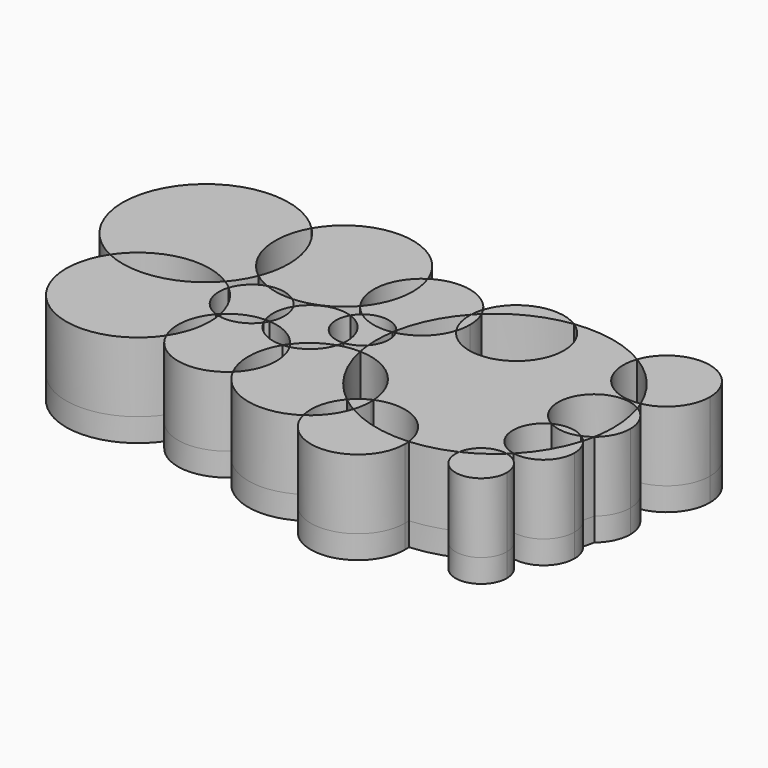
from build123d import *

# Parameters (mm, degrees)
F1_DEPTH = 15
F2_DEPTH = 5


with BuildPart() as f1:
    # F0 (on Top) → F1 (new body)
    with BuildSketch(Plane.XY):
        with BuildLine():
            ThreePointArc((-32.2254902645, 13.2245098171), (-37.7305843514, 22.0466509561), (-36.0782939342, 32.3134017351))
            ThreePointArc((-36.0782939342, 32.3134017351), (-63.373637172, 30.1933308866), (-56.538171332, 3.6828259947))
            ThreePointArc((-56.538171332, 3.6828259947), (-46.8354318647, 10.2532610517), (-35.3112346249, 8.1303743406))
            ThreePointArc((-35.3112346249, 8.1303743406), (-33.5546083045, 10.5479616919), (-32.2254902645, 13.2245098171))
        make_face()
    extrude(amount=F1_DEPTH)


with BuildPart() as f1b:
    # F0 (on Top) → F1, piece 2 (new body)
    with BuildSketch(Plane.XY):
        with BuildLine():
            ThreePointArc((-36.0782939342, 32.3134017351), (-32.2959619464, 26.5607498001), (-30.9695373069, 19.8050383478))
            ThreePointArc((-30.9695373069, 19.8050383478), (-31.2863340464, 16.4553826351), (-32.2254902645, 13.2245098171))
            ThreePointArc((-32.2254902645, 13.2245098171), (-30.5842192364, 12.1313862153), (-28.8122669355, 11.266010667))
            ThreePointArc((-28.8122669355, 11.266010667), (-25.5415165773, 11.474886789), (-22.5295555799, 10.1827845909))
            ThreePointArc((-22.5295555799, 10.1827845909), (-16.7448901594, 11.6544127118), (-12.0110207079, 15.2901414379))
            ThreePointArc((-12.0110207079, 15.2901414379), (-13.8808275785, 23.2900306621), (-9.3292227808, 30.1294238441))
            ThreePointArc((-9.3292227808, 30.1294238441), (-22.0084656353, 39.7372657082), (-36.0782939342, 32.3134017351))
        make_face()
    extrude(amount=F1_DEPTH)


with BuildPart() as f1c:
    # F0 (on Top) → F1, piece 3 (new body)
    with BuildSketch(Plane.XY):
        with BuildLine():
            ThreePointArc((4.9398122947, 27.1334498944), (-1.5770584962, 31.5731256967), (-9.3292227808, 30.1294238441))
            ThreePointArc((-9.3292227808, 30.1294238441), (-8.6370801517, 27.5942627275), (-8.4039187059, 24.9766800553))
            ThreePointArc((-8.4039187059, 24.9766800553), (-9.3349600899, 19.8085030256), (-12.0110207079, 15.2901414379))
            ThreePointArc((-12.0110207079, 15.2901414379), (-11.0246551136, 14.1451878178), (-9.8819778636, 13.1561860078))
            ThreePointArc((-9.8819778636, 13.1561860078), (-5.5773216343, 14.3927048766), (-1.71455073, 12.1259792414))
            ThreePointArc((-1.71455073, 12.1259792414), (0.5212629453, 18.7409769349), (4.4677112759, 24.5014111937))
            ThreePointArc((4.4677112759, 24.5014111937), (4.6169324215, 25.8330048709), (4.9398122947, 27.1334498944))
        make_face()
    extrude(amount=F1_DEPTH)


with BuildPart() as f1d:
    # F0 (on Top) → F1, piece 4 (new body)
    with BuildSketch(Plane.XY):
        with BuildLine():
            ThreePointArc((20.0756927522, 32.6351484916), (11.156970704, 33.6004737131), (4.9398122947, 27.1334498944))
            ThreePointArc((4.9398122947, 27.1334498944), (5.3450863537, 26.463148143), (5.6984728403, 25.7640991521))
            ThreePointArc((5.6984728403, 25.7640991521), (12.3365440109, 30.3515901076), (20.0756927522, 32.6351484916))
        make_face()
    extrude(amount=F1_DEPTH)


with BuildPart() as f1e:
    # F0 (on Top) → F1, piece 5 (new body)
    with BuildSketch(Plane.XY):
        with BuildLine():
            ThreePointArc((36.4044744584, 29.2372521428), (28.5257682279, 32.309073813), (20.0756927522, 32.6351484916))
            ThreePointArc((20.0756927522, 32.6351484916), (23.5479883323, 28.9442761635), (24.8097109907, 24.0363813937))
            ThreePointArc((24.8097109907, 24.0363813937), (17.5893774915, 14.2988475985), (6.1743676884, 18.3793293649))
            ThreePointArc((6.1743676884, 18.3793293649), (3.3771326049, 13.9097804947), (-1.2598399419, 11.3998249542))
            ThreePointArc((-1.2598399419, 11.3998249542), (-0.7729304118, 10.1178412097), (-0.6074121808, 8.7565304711))
            ThreePointArc((-0.6074121808, 8.7565304711), (-0.9817474949, 6.7284903619), (-2.055420214, 4.9677233402))
            ThreePointArc((-2.055420214, 4.9677233402), (-1.9018330364, 3.6812345796), (-1.6830945111, 2.404208421))
            ThreePointArc((-1.6830945111, 2.404208421), (7.0944451445, -1.2916588472), (11.0820796326, -9.9405552196))
            ThreePointArc((11.0820796326, -9.9405552196), (20.1699016902, -10.467312619), (25.1510636041, -18.0866307706))
            ThreePointArc((25.1510636041, -18.0866307706), (29.7383765532, -17.3335145213), (34.1127121842, -15.7600432109))
            ThreePointArc((34.1127121842, -15.7600432109), (36.4651361569, -12.0693654226), (40.7661391089, -11.259195878))
            ThreePointArc((40.7661391089, -11.259195878), (41.1883729661, -10.8543247189), (41.6012075804, -10.439873676))
            ThreePointArc((41.6012075804, -10.439873676), (36.2898310138, -4.87866024), (39.8212254433, 1.9526697401))
            ThreePointArc((39.8212254433, 1.9526697401), (36.8118206053, 12.6046203357), (47.5161609342, 15.4220069072))
            ThreePointArc((47.5161609342, 15.4220069072), (47.2362392647, 16.2163706009), (46.9302344817, 17.0010558191))
            ThreePointArc((46.9302344817, 17.0010558191), (38.1317957742, 20.077813241), (36.4044744584, 29.2372521428))
        make_face()
    extrude(amount=F1_DEPTH)


with BuildPart() as f1f:
    # F0 (on Top) → F1, piece 6 (new body)
    with BuildSketch(Plane.XY):
        with BuildLine():
            ThreePointArc((54.5075159284, 26.1520519853), (46.7579402289, 35.3340802263), (36.4044744584, 29.2372521428))
            ThreePointArc((36.4044744584, 29.2372521428), (42.6611146951, 23.9740014656), (46.9302344817, 17.0010558191))
            ThreePointArc((46.9302344817, 17.0010558191), (52.36731559, 20.2115990363), (54.5075159284, 26.1520519853))
        make_face()
    extrude(amount=F1_DEPTH)


with BuildPart() as f1g:
    # F0 (on Top) → F1, piece 7 (new body)
    with BuildSketch(Plane.XY):
        with BuildLine():
            ThreePointArc((51.3050407171, 8.7565304711), (50.2916258171, 12.5900727667), (47.5161609342, 15.4220069072))
            ThreePointArc((47.5161609342, 15.4220069072), (48.4985767554, 11.4370431163), (48.8289016152, 7.3460820131))
            ThreePointArc((48.8289016152, 7.3460820131), (48.7222721494, 5.0166503766), (48.4032755832, 2.7067017229))
            ThreePointArc((48.4032755832, 2.7067017229), (50.5420801535, 5.4016583135), (51.3050407171, 8.7565304711))
        make_face()
    extrude(amount=F1_DEPTH)


with BuildPart() as f1h:
    # F0 (on Top) → F1, piece 8 (new body)
    with BuildSketch(Plane.XY):
        with BuildLine():
            ThreePointArc((47.859241201, 0.3813089216), (45.4036417844, -5.4187286001), (41.6012075804, -10.439873676))
            ThreePointArc((41.6012075804, -10.439873676), (47.0616648983, -9.0383518279), (49.4621167071, -3.9375000633))
            ThreePointArc((49.4621167071, -3.9375000633), (49.0484744169, -1.6341698147), (47.859241201, 0.3813089216))
        make_face()
    extrude(amount=F1_DEPTH)


with BuildPart() as f1i:
    # F0 (on Top) → F1, piece 9 (new body)
    with BuildSketch(Plane.XY):
        with BuildLine():
            ThreePointArc((46.4973372871, 1.5817728825), (43.2095511717, 2.6720735462), (39.8212254433, 1.9526697401))
            ThreePointArc((39.8212254433, 1.9526697401), (43.1172695255, 1.0110117752), (46.4973372871, 1.5817728825))
        make_face()
    extrude(amount=F1_DEPTH)


with BuildPart() as f1j:
    # F0 (on Top) → F1, piece 10 (new body)
    with BuildSketch(Plane.XY):
        with BuildLine():
            ThreePointArc((40.7661391089, -11.259195878), (37.6177819055, -13.77327664), (34.1127121842, -15.7600432109))
            ThreePointArc((34.1127121842, -15.7600432109), (39.1141840879, -22.1221337116), (45.059282421, -16.6315305978))
            ThreePointArc((45.059282421, -16.6315305978), (43.8541583157, -13.193033112), (40.7661391089, -11.259195878))
        make_face()
    extrude(amount=F1_DEPTH)


with BuildPart() as f1k:
    # F0 (on Top) → F1, piece 11 (new body)
    with BuildSketch(Plane.XY):
        with BuildLine():
            ThreePointArc((10.5050333457, -14.6908294381), (8.4947966558, -18.6259590286), (5.2956344741, -21.6741810971))
            ThreePointArc((5.2956344741, -21.6741810971), (16.341269602, -29.2522495604), (25.2144875615, -19.2173514515))
            ThreePointArc((25.2144875615, -19.2173514515), (25.1986191199, -18.6511024214), (25.1510636041, -18.0866307706))
            ThreePointArc((25.1510636041, -18.0866307706), (17.5720711637, -17.4927556576), (10.5050333457, -14.6908294381))
        make_face()
    extrude(amount=F1_DEPTH)


with BuildPart() as f1l:
    # F0 (on Top) → F1, piece 12 (new body)
    with BuildSketch(Plane.XY):
        with BuildLine():
            ThreePointArc((7.4542287986, -12.6053104176), (8.9417983003, -13.7034136534), (10.5050333457, -14.6908294381))
            ThreePointArc((10.5050333457, -14.6908294381), (10.9558451945, -12.7456498976), (11.1072771251, -10.7546644285))
            ThreePointArc((11.1072771251, -10.7546644285), (11.1009762441, -10.3474148988), (11.0820796326, -9.9405552196))
            ThreePointArc((11.0820796326, -9.9405552196), (9.1179777436, -11.0684795766), (7.4542287986, -12.6053104176))
        make_face()
    extrude(amount=F1_DEPTH)


with BuildPart() as f1m:
    # F0 (on Top) → F1, piece 13 (new body)
    with BuildSketch(Plane.XY):
        with BuildLine():
            ThreePointArc((-10.5169785998, -9.1091422364), (-11.3661154493, -13.2622555227), (-13.7772372875, -16.7487831419))
            ThreePointArc((-13.7772372875, -16.7487831419), (-5.3484529425, -23.5006981162), (5.2956344741, -21.6741810971))
            ThreePointArc((5.2956344741, -21.6741810971), (5.2673977384, -16.8761278858), (7.4542287986, -12.6053104176))
            ThreePointArc((7.4542287986, -12.6053104176), (1.5517273424, -5.9125507459), (-1.6830945111, 2.404208421))
            ThreePointArc((-1.6830945111, 2.404208421), (-3.9477170563, 2.2730174378), (-6.1561950599, 1.7549911317))
            ThreePointArc((-6.1561950599, 1.7549911317), (-8.3365133633, -1.7685914205), (-11.9881298518, -3.7269373876))
            ThreePointArc((-11.9881298518, -3.7269373876), (-10.8913907808, -6.3193207797), (-10.5169785998, -9.1091422364))
        make_face()
    extrude(amount=F1_DEPTH)


with BuildPart() as f1n:
    # F0 (on Top) → F1, piece 14 (new body)
    with BuildSketch(Plane.XY):
        with BuildLine():
            ThreePointArc((-28.2054938273, -4.8777987249), (-28.8601133132, -9.3288448474), (-30.7685335851, -13.4029423329))
            ThreePointArc((-30.7685335851, -13.4029423329), (-23.1422429899, -19.4907505417), (-13.7772372875, -16.7487831419))
            ThreePointArc((-13.7772372875, -16.7487831419), (-15.2123184287, -10.2743071417), (-13.3088699503, -3.9217343363))
            ThreePointArc((-13.3088699503, -3.9217343363), (-17.7982504462, -2.8716916663), (-20.9606994855, 0.4833110043))
            ThreePointArc((-20.9606994855, 0.4833110043), (-24.2546940193, -2.0747088173), (-28.4178022933, -2.3244985194))
            ThreePointArc((-28.4178022933, -2.3244985194), (-28.2586623721, -3.5967428299), (-28.2054938273, -4.8777987249))
        make_face()
    extrude(amount=F1_DEPTH)


with BuildPart() as f1o:
    # F0 (on Top) → F1, piece 15 (new body)
    with BuildSketch(Plane.XY):
        with BuildLine():
            ThreePointArc((-22.5295555799, 10.1827845909), (-25.7298920745, 10.3823088851), (-28.8122669355, 11.266010667))
            ThreePointArc((-28.8122669355, 11.266010667), (-31.6811899526, 9.5567026736), (-33.4420340494, 6.7191189899))
            ThreePointArc((-33.4420340494, 6.7191189899), (-30.3330062232, 2.9487433898), (-28.5561739019, -1.603690365))
            ThreePointArc((-28.5561739019, -1.603690365), (-25.258484357, 0.6195202365), (-21.3729888947, 1.4682526591))
            ThreePointArc((-21.3729888947, 1.4682526591), (-21.7606536881, 4.8783574129), (-20.6823965739, 8.1366483789))
            ThreePointArc((-20.6823965739, 8.1366483789), (-21.5050289079, 9.2508470124), (-22.5295555799, 10.1827845909))
        make_face()
    extrude(amount=F1_DEPTH)


with BuildPart() as f1p:
    # F0 (on Top) → F1, piece 16 (new body)
    with BuildSketch(Plane.XY):
        with BuildLine():
            ThreePointArc((-35.3112346249, 8.1303743406), (-45.1727112917, 2.3175486955), (-56.538171332, 3.6828259947))
            ThreePointArc((-56.538171332, 3.6828259947), (-52.2080070515, -17.7626298115), (-30.7685335851, -13.4029423329))
            ThreePointArc((-30.7685335851, -13.4029423329), (-31.5587691156, -7.5191209668), (-29.055958534, -2.1358352366))
            ThreePointArc((-29.055958534, -2.1358352366), (-33.0592295828, 1.3949890299), (-33.4420340494, 6.7191189899))
            ThreePointArc((-33.4420340494, 6.7191189899), (-34.3498703198, 7.4601954708), (-35.3112346249, 8.1303743406))
        make_face()
    extrude(amount=F1_DEPTH)


with BuildPart() as f1q:
    # F0 (on Top) → F1, piece 17 (new body)
    with BuildSketch(Plane.XY):
        with BuildLine():
            ThreePointArc((-28.5561739019, -1.603690365), (-28.8106570578, -1.8654511343), (-29.055958534, -2.1358352366))
            ThreePointArc((-29.055958534, -2.1358352366), (-28.7391069732, -2.2376982475), (-28.4178022933, -2.3244985194))
            ThreePointArc((-28.4178022933, -2.3244985194), (-28.4827098096, -1.9632731507), (-28.5561739019, -1.603690365))
        make_face()
    extrude(amount=F1_DEPTH)


with BuildPart() as f1r:
    # F0 (on Top) → F1, piece 18 (new body)
    with BuildSketch(Plane.XY):
        with BuildLine():
            ThreePointArc((-20.394080626, 1.4483905943), (-20.8833048953, 1.4696505987), (-21.3729888947, 1.4682526591))
            ThreePointArc((-21.3729888947, 1.4682526591), (-21.1833103049, 0.9688892358), (-20.9606994855, 0.4833110043))
            ThreePointArc((-20.9606994855, 0.4833110043), (-20.6582162212, 0.9545934311), (-20.394080626, 1.4483905943))
        make_face()
    extrude(amount=F1_DEPTH)


with BuildPart() as f1s:
    # F0 (on Top) → F1, piece 19 (new body)
    with BuildSketch(Plane.XY):
        with BuildLine():
            ThreePointArc((-12.5751310445, -2.8386950609), (-12.9554621285, -3.3710946947), (-13.3088699503, -3.9217343363))
            ThreePointArc((-13.3088699503, -3.9217343363), (-12.6444255616, -3.8519602344), (-11.9881298518, -3.7269373876))
            ThreePointArc((-11.9881298518, -3.7269373876), (-12.270451256, -3.2754283764), (-12.5751310445, -2.8386950609))
        make_face()
    extrude(amount=F1_DEPTH)


with BuildPart() as f1t:
    # F0 (on Top) → F1, piece 20 (new body)
    with BuildSketch(Plane.XY):
        with BuildLine():
            ThreePointArc((-11.200752309, 11.6094517769), (-16.5594517063, 11.5600135348), (-20.6823965739, 8.1366483789))
            ThreePointArc((-20.6823965739, 8.1366483789), (-19.9407733842, 6.3981836062), (-19.6875017136, 4.525186494))
            ThreePointArc((-19.6875017136, 4.525186494), (-19.8664159554, 2.946743688), (-20.394080626, 1.4483905943))
            ThreePointArc((-20.394080626, 1.4483905943), (-16.010935021, 0.1687465812), (-12.5751310445, -2.8386950609))
            ThreePointArc((-12.5751310445, -2.8386950609), (-9.7180688716, -0.0494216374), (-6.1561950599, 1.7549911317))
            ThreePointArc((-6.1561950599, 1.7549911317), (-5.9877867495, 2.4168343251), (-5.8764936736, 3.0906381712))
            ThreePointArc((-5.8764936736, 3.0906381712), (-11.1055838755, 5.7456943817), (-11.200752309, 11.6094517769))
        make_face()
    extrude(amount=F1_DEPTH)


with BuildPart() as f1u:
    # F0 (on Top) → F1, piece 21 (new body)
    with BuildSketch(Plane.XY):
        with BuildLine():
            ThreePointArc((-1.862496201, 11.2722418853), (-6.0678839317, 11.3813937458), (-9.8819778636, 13.1561860078))
            ThreePointArc((-9.8819778636, 13.1561860078), (-10.611106013, 12.4422813069), (-11.200752309, 11.6094517769))
            ThreePointArc((-11.200752309, 11.6094517769), (-7.3014011156, 8.6929830831), (-5.8180969208, 4.0550376289))
            ThreePointArc((-5.8180969208, 4.0550376289), (-5.8327094669, 3.5719546922), (-5.8764936736, 3.0906381712))
            ThreePointArc((-5.8764936736, 3.0906381712), (-3.7834728463, 3.6577084574), (-2.055420214, 4.9677233402))
            ThreePointArc((-2.055420214, 4.9677233402), (-2.154656022, 8.1259711442), (-1.862496201, 11.2722418853))
        make_face()
    extrude(amount=F1_DEPTH)


with BuildPart() as f1v:
    # F0 (on Top) → F1, piece 22 (new body)
    with BuildSketch(Plane.XY):
        with BuildLine():
            ThreePointArc((-1.2598399419, 11.3998249542), (-1.4734861426, 11.771486662), (-1.71455073, 12.1259792414))
            ThreePointArc((-1.71455073, 12.1259792414), (-1.7921501778, 11.6997390419), (-1.862496201, 11.2722418853))
            ThreePointArc((-1.862496201, 11.2722418853), (-1.5602180557, 11.3315458889), (-1.2598399419, 11.3998249542))
        make_face()
    extrude(amount=F1_DEPTH)


with BuildPart() as f1w:
    # F0 (on Top) → F1, piece 23 (new body)
    with BuildSketch(Plane.XY):
        with BuildLine():
            ThreePointArc((6.6408575512, 21.45056054), (6.4025152903, 23.6582009263), (5.6984728403, 25.7640991521))
            ThreePointArc((5.6984728403, 25.7640991521), (5.07217375, 25.1433974174), (4.4677112759, 24.5014111937))
            ThreePointArc((4.4677112759, 24.5014111937), (4.8308475722, 21.3037191874), (6.1743676884, 18.3793293649))
            ThreePointArc((6.1743676884, 18.3793293649), (6.5235700962, 19.8973321502), (6.6408575512, 21.45056054))
        make_face()
    extrude(amount=F1_DEPTH)


with BuildPart() as f1x:
    # F0 (on Top) → F1, piece 24 (new body)
    with BuildSketch(Plane.XY):
        with BuildLine():
            ThreePointArc((47.859241201, 0.3813089216), (48.1584986222, 1.5376323681), (48.4032755832, 2.7067017229))
            ThreePointArc((48.4032755832, 2.7067017229), (47.4906295435, 2.0759188867), (46.4973372871, 1.5817728825))
            ThreePointArc((46.4973372871, 1.5817728825), (47.2196377028, 1.0284499552), (47.859241201, 0.3813089216))
        make_face()
    extrude(amount=F1_DEPTH)


with BuildPart() as f2:
    # F0 (on Top) → F2 (new body)
    with BuildSketch(Plane.XY):
        with BuildLine():
            ThreePointArc((-35.3112346249, 8.1303743406), (-45.1727112917, 2.3175486955), (-56.538171332, 3.6828259947))
            ThreePointArc((-56.538171332, 3.6828259947), (-52.2080070515, -17.7626298115), (-30.7685335851, -13.4029423329))
            ThreePointArc((-30.7685335851, -13.4029423329), (-31.5587691156, -7.5191209668), (-29.055958534, -2.1358352366))
            ThreePointArc((-29.055958534, -2.1358352366), (-33.0592295828, 1.3949890299), (-33.4420340494, 6.7191189899))
            ThreePointArc((-33.4420340494, 6.7191189899), (-34.3498703198, 7.4601954708), (-35.3112346249, 8.1303743406))
        make_face()
        with BuildLine():
            ThreePointArc((-28.5561739019, -1.603690365), (-30.3330062232, 2.9487433898), (-33.4420340494, 6.7191189899))
            ThreePointArc((-33.4420340494, 6.7191189899), (-33.0592295828, 1.3949890299), (-29.055958534, -2.1358352366))
            ThreePointArc((-29.055958534, -2.1358352366), (-28.8106570578, -1.8654511343), (-28.5561739019, -1.603690365))
        make_face()
        with BuildLine():
            ThreePointArc((-29.055958534, -2.1358352366), (-31.5587691156, -7.5191209668), (-30.7685335851, -13.4029423329))
            ThreePointArc((-30.7685335851, -13.4029423329), (-28.8601133132, -9.3288448474), (-28.2054938273, -4.8777987249))
            ThreePointArc((-28.2054938273, -4.8777987249), (-28.2586623721, -3.5967428299), (-28.4178022933, -2.3244985194))
            ThreePointArc((-28.4178022933, -2.3244985194), (-28.7391069732, -2.2376982475), (-29.055958534, -2.1358352366))
        make_face()
        with BuildLine():
            ThreePointArc((-35.3112346249, 8.1303743406), (-46.8354318647, 10.2532610517), (-56.538171332, 3.6828259947))
            ThreePointArc((-56.538171332, 3.6828259947), (-45.1727112917, 2.3175486955), (-35.3112346249, 8.1303743406))
        make_face()
        with BuildLine():
            ThreePointArc((-32.2254902645, 13.2245098171), (-37.7305843514, 22.0466509561), (-36.0782939342, 32.3134017351))
            ThreePointArc((-36.0782939342, 32.3134017351), (-63.373637172, 30.1933308866), (-56.538171332, 3.6828259947))
            ThreePointArc((-56.538171332, 3.6828259947), (-46.8354318647, 10.2532610517), (-35.3112346249, 8.1303743406))
            ThreePointArc((-35.3112346249, 8.1303743406), (-33.5546083045, 10.5479616919), (-32.2254902645, 13.2245098171))
        make_face()
        with BuildLine():
            ThreePointArc((-28.8122669355, 11.266010667), (-30.5842192364, 12.1313862153), (-32.2254902645, 13.2245098171))
            ThreePointArc((-32.2254902645, 13.2245098171), (-33.5546083045, 10.5479616919), (-35.3112346249, 8.1303743406))
            ThreePointArc((-35.3112346249, 8.1303743406), (-34.3498703198, 7.4601954708), (-33.4420340494, 6.7191189899))
            ThreePointArc((-33.4420340494, 6.7191189899), (-31.6811899526, 9.5567026736), (-28.8122669355, 11.266010667))
        make_face()
        with BuildLine():
            ThreePointArc((-32.2254902645, 13.2245098171), (-31.2863340464, 16.4553826351), (-30.9695373069, 19.8050383478))
            ThreePointArc((-30.9695373069, 19.8050383478), (-32.2959619464, 26.5607498001), (-36.0782939342, 32.3134017351))
            ThreePointArc((-36.0782939342, 32.3134017351), (-37.7305843514, 22.0466509561), (-32.2254902645, 13.2245098171))
        make_face()
        with BuildLine():
            ThreePointArc((-36.0782939342, 32.3134017351), (-32.2959619464, 26.5607498001), (-30.9695373069, 19.8050383478))
            ThreePointArc((-30.9695373069, 19.8050383478), (-31.2863340464, 16.4553826351), (-32.2254902645, 13.2245098171))
            ThreePointArc((-32.2254902645, 13.2245098171), (-30.5842192364, 12.1313862153), (-28.8122669355, 11.266010667))
            ThreePointArc((-28.8122669355, 11.266010667), (-25.5415165773, 11.474886789), (-22.5295555799, 10.1827845909))
            ThreePointArc((-22.5295555799, 10.1827845909), (-16.7448901594, 11.6544127118), (-12.0110207079, 15.2901414379))
            ThreePointArc((-12.0110207079, 15.2901414379), (-13.8808275785, 23.2900306621), (-9.3292227808, 30.1294238441))
            ThreePointArc((-9.3292227808, 30.1294238441), (-22.0084656353, 39.7372657082), (-36.0782939342, 32.3134017351))
        make_face()
        with BuildLine():
            ThreePointArc((-22.5295555799, 10.1827845909), (-25.5415165773, 11.474886789), (-28.8122669355, 11.266010667))
            ThreePointArc((-28.8122669355, 11.266010667), (-25.7298920745, 10.3823088851), (-22.5295555799, 10.1827845909))
        make_face()
        with BuildLine():
            ThreePointArc((-19.6875017136, 4.525186494), (-19.9407733842, 6.3981836062), (-20.6823965739, 8.1366483789))
            ThreePointArc((-20.6823965739, 8.1366483789), (-21.7606536881, 4.8783574129), (-21.3729888947, 1.4682526591))
            ThreePointArc((-21.3729888947, 1.4682526591), (-20.8833048953, 1.4696505987), (-20.394080626, 1.4483905943))
            ThreePointArc((-20.394080626, 1.4483905943), (-19.8664159554, 2.946743688), (-19.6875017136, 4.525186494))
        make_face()
        with BuildLine():
            ThreePointArc((-21.3729888947, 1.4682526591), (-25.258484357, 0.6195202365), (-28.5561739019, -1.603690365))
            ThreePointArc((-28.5561739019, -1.603690365), (-28.4827098096, -1.9632731507), (-28.4178022933, -2.3244985194))
            ThreePointArc((-28.4178022933, -2.3244985194), (-24.2546940193, -2.0747088173), (-20.9606994855, 0.4833110043))
            ThreePointArc((-20.9606994855, 0.4833110043), (-21.1833103049, 0.9688892358), (-21.3729888947, 1.4682526591))
        make_face()
        with BuildLine():
            ThreePointArc((-28.5561739019, -1.603690365), (-28.8106570578, -1.8654511343), (-29.055958534, -2.1358352366))
            ThreePointArc((-29.055958534, -2.1358352366), (-28.7391069732, -2.2376982475), (-28.4178022933, -2.3244985194))
            ThreePointArc((-28.4178022933, -2.3244985194), (-28.4827098096, -1.9632731507), (-28.5561739019, -1.603690365))
        make_face()
        with BuildLine():
            ThreePointArc((-20.394080626, 1.4483905943), (-20.8833048953, 1.4696505987), (-21.3729888947, 1.4682526591))
            ThreePointArc((-21.3729888947, 1.4682526591), (-21.1833103049, 0.9688892358), (-20.9606994855, 0.4833110043))
            ThreePointArc((-20.9606994855, 0.4833110043), (-20.6582162212, 0.9545934311), (-20.394080626, 1.4483905943))
        make_face()
        with BuildLine():
            ThreePointArc((-28.2054938273, -4.8777987249), (-28.8601133132, -9.3288448474), (-30.7685335851, -13.4029423329))
            ThreePointArc((-30.7685335851, -13.4029423329), (-23.1422429899, -19.4907505417), (-13.7772372875, -16.7487831419))
            ThreePointArc((-13.7772372875, -16.7487831419), (-15.2123184287, -10.2743071417), (-13.3088699503, -3.9217343363))
            ThreePointArc((-13.3088699503, -3.9217343363), (-17.7982504462, -2.8716916663), (-20.9606994855, 0.4833110043))
            ThreePointArc((-20.9606994855, 0.4833110043), (-24.2546940193, -2.0747088173), (-28.4178022933, -2.3244985194))
            ThreePointArc((-28.4178022933, -2.3244985194), (-28.2586623721, -3.5967428299), (-28.2054938273, -4.8777987249))
        make_face()
        with BuildLine():
            ThreePointArc((-20.9606994855, 0.4833110043), (-17.7982504462, -2.8716916663), (-13.3088699503, -3.9217343363))
            ThreePointArc((-13.3088699503, -3.9217343363), (-12.9554621285, -3.3710946947), (-12.5751310445, -2.8386950609))
            ThreePointArc((-12.5751310445, -2.8386950609), (-16.010935021, 0.1687465812), (-20.394080626, 1.4483905943))
            ThreePointArc((-20.394080626, 1.4483905943), (-20.6582162212, 0.9545934311), (-20.9606994855, 0.4833110043))
        make_face()
        with BuildLine():
            ThreePointArc((-11.200752309, 11.6094517769), (-16.5594517063, 11.5600135348), (-20.6823965739, 8.1366483789))
            ThreePointArc((-20.6823965739, 8.1366483789), (-19.9407733842, 6.3981836062), (-19.6875017136, 4.525186494))
            ThreePointArc((-19.6875017136, 4.525186494), (-19.8664159554, 2.946743688), (-20.394080626, 1.4483905943))
            ThreePointArc((-20.394080626, 1.4483905943), (-16.010935021, 0.1687465812), (-12.5751310445, -2.8386950609))
            ThreePointArc((-12.5751310445, -2.8386950609), (-9.7180688716, -0.0494216374), (-6.1561950599, 1.7549911317))
            ThreePointArc((-6.1561950599, 1.7549911317), (-5.9877867495, 2.4168343251), (-5.8764936736, 3.0906381712))
            ThreePointArc((-5.8764936736, 3.0906381712), (-11.1055838755, 5.7456943817), (-11.200752309, 11.6094517769))
        make_face()
        with BuildLine():
            ThreePointArc((-9.8819778636, 13.1561860078), (-11.0246551136, 14.1451878178), (-12.0110207079, 15.2901414379))
            ThreePointArc((-12.0110207079, 15.2901414379), (-16.7448901594, 11.6544127118), (-22.5295555799, 10.1827845909))
            ThreePointArc((-22.5295555799, 10.1827845909), (-21.5050289079, 9.2508470124), (-20.6823965739, 8.1366483789))
            ThreePointArc((-20.6823965739, 8.1366483789), (-16.5594517063, 11.5600135348), (-11.200752309, 11.6094517769))
            ThreePointArc((-11.200752309, 11.6094517769), (-10.611106013, 12.4422813069), (-9.8819778636, 13.1561860078))
        make_face()
        with BuildLine():
            ThreePointArc((-8.4039187059, 24.9766800553), (-8.6370801517, 27.5942627275), (-9.3292227808, 30.1294238441))
            ThreePointArc((-9.3292227808, 30.1294238441), (-13.8808275785, 23.2900306621), (-12.0110207079, 15.2901414379))
            ThreePointArc((-12.0110207079, 15.2901414379), (-9.3349600899, 19.8085030256), (-8.4039187059, 24.9766800553))
        make_face()
        with BuildLine():
            ThreePointArc((4.9398122947, 27.1334498944), (-1.5770584962, 31.5731256967), (-9.3292227808, 30.1294238441))
            ThreePointArc((-9.3292227808, 30.1294238441), (-8.6370801517, 27.5942627275), (-8.4039187059, 24.9766800553))
            ThreePointArc((-8.4039187059, 24.9766800553), (-9.3349600899, 19.8085030256), (-12.0110207079, 15.2901414379))
            ThreePointArc((-12.0110207079, 15.2901414379), (-11.0246551136, 14.1451878178), (-9.8819778636, 13.1561860078))
            ThreePointArc((-9.8819778636, 13.1561860078), (-5.5773216343, 14.3927048766), (-1.71455073, 12.1259792414))
            ThreePointArc((-1.71455073, 12.1259792414), (0.5212629453, 18.7409769349), (4.4677112759, 24.5014111937))
            ThreePointArc((4.4677112759, 24.5014111937), (4.6169324215, 25.8330048709), (4.9398122947, 27.1334498944))
        make_face()
        with BuildLine():
            ThreePointArc((-1.71455073, 12.1259792414), (-5.5773216343, 14.3927048766), (-9.8819778636, 13.1561860078))
            ThreePointArc((-9.8819778636, 13.1561860078), (-6.0678839317, 11.3813937458), (-1.862496201, 11.2722418853))
            ThreePointArc((-1.862496201, 11.2722418853), (-1.7921501778, 11.6997390419), (-1.71455073, 12.1259792414))
        make_face()
        with BuildLine():
            ThreePointArc((-5.8180969208, 4.0550376289), (-7.3014011156, 8.6929830831), (-11.200752309, 11.6094517769))
            ThreePointArc((-11.200752309, 11.6094517769), (-11.1055838755, 5.7456943817), (-5.8764936736, 3.0906381712))
            ThreePointArc((-5.8764936736, 3.0906381712), (-5.8327094669, 3.5719546922), (-5.8180969208, 4.0550376289))
        make_face()
        with BuildLine():
            ThreePointArc((-1.862496201, 11.2722418853), (-6.0678839317, 11.3813937458), (-9.8819778636, 13.1561860078))
            ThreePointArc((-9.8819778636, 13.1561860078), (-10.611106013, 12.4422813069), (-11.200752309, 11.6094517769))
            ThreePointArc((-11.200752309, 11.6094517769), (-7.3014011156, 8.6929830831), (-5.8180969208, 4.0550376289))
            ThreePointArc((-5.8180969208, 4.0550376289), (-5.8327094669, 3.5719546922), (-5.8764936736, 3.0906381712))
            ThreePointArc((-5.8764936736, 3.0906381712), (-3.7834728463, 3.6577084574), (-2.055420214, 4.9677233402))
            ThreePointArc((-2.055420214, 4.9677233402), (-2.154656022, 8.1259711442), (-1.862496201, 11.2722418853))
        make_face()
        with BuildLine():
            ThreePointArc((-12.5751310445, -2.8386950609), (-12.270451256, -3.2754283764), (-11.9881298518, -3.7269373876))
            ThreePointArc((-11.9881298518, -3.7269373876), (-8.3365133633, -1.7685914205), (-6.1561950599, 1.7549911317))
            ThreePointArc((-6.1561950599, 1.7549911317), (-9.7180688716, -0.0494216374), (-12.5751310445, -2.8386950609))
        make_face()
        with BuildLine():
            ThreePointArc((-13.3088699503, -3.9217343363), (-15.2123184287, -10.2743071417), (-13.7772372875, -16.7487831419))
            ThreePointArc((-13.7772372875, -16.7487831419), (-11.3661154493, -13.2622555227), (-10.5169785998, -9.1091422364))
            ThreePointArc((-10.5169785998, -9.1091422364), (-10.8913907808, -6.3193207797), (-11.9881298518, -3.7269373876))
            ThreePointArc((-11.9881298518, -3.7269373876), (-12.6444255616, -3.8519602344), (-13.3088699503, -3.9217343363))
        make_face()
        with BuildLine():
            ThreePointArc((-10.5169785998, -9.1091422364), (-11.3661154493, -13.2622555227), (-13.7772372875, -16.7487831419))
            ThreePointArc((-13.7772372875, -16.7487831419), (-5.3484529425, -23.5006981162), (5.2956344741, -21.6741810971))
            ThreePointArc((5.2956344741, -21.6741810971), (5.2673977384, -16.8761278858), (7.4542287986, -12.6053104176))
            ThreePointArc((7.4542287986, -12.6053104176), (1.5517273424, -5.9125507459), (-1.6830945111, 2.404208421))
            ThreePointArc((-1.6830945111, 2.404208421), (-3.9477170563, 2.2730174378), (-6.1561950599, 1.7549911317))
            ThreePointArc((-6.1561950599, 1.7549911317), (-8.3365133633, -1.7685914205), (-11.9881298518, -3.7269373876))
            ThreePointArc((-11.9881298518, -3.7269373876), (-10.8913907808, -6.3193207797), (-10.5169785998, -9.1091422364))
        make_face()
        with BuildLine():
            ThreePointArc((-22.5295555799, 10.1827845909), (-25.7298920745, 10.3823088851), (-28.8122669355, 11.266010667))
            ThreePointArc((-28.8122669355, 11.266010667), (-31.6811899526, 9.5567026736), (-33.4420340494, 6.7191189899))
            ThreePointArc((-33.4420340494, 6.7191189899), (-30.3330062232, 2.9487433898), (-28.5561739019, -1.603690365))
            ThreePointArc((-28.5561739019, -1.603690365), (-25.258484357, 0.6195202365), (-21.3729888947, 1.4682526591))
            ThreePointArc((-21.3729888947, 1.4682526591), (-21.7606536881, 4.8783574129), (-20.6823965739, 8.1366483789))
            ThreePointArc((-20.6823965739, 8.1366483789), (-21.5050289079, 9.2508470124), (-22.5295555799, 10.1827845909))
        make_face()
        with BuildLine():
            ThreePointArc((-12.5751310445, -2.8386950609), (-12.9554621285, -3.3710946947), (-13.3088699503, -3.9217343363))
            ThreePointArc((-13.3088699503, -3.9217343363), (-12.6444255616, -3.8519602344), (-11.9881298518, -3.7269373876))
            ThreePointArc((-11.9881298518, -3.7269373876), (-12.270451256, -3.2754283764), (-12.5751310445, -2.8386950609))
        make_face()
        with BuildLine():
            ThreePointArc((-1.6830945111, 2.404208421), (1.5517273424, -5.9125507459), (7.4542287986, -12.6053104176))
            ThreePointArc((7.4542287986, -12.6053104176), (9.1179777436, -11.0684795766), (11.0820796326, -9.9405552196))
            ThreePointArc((11.0820796326, -9.9405552196), (7.0944451445, -1.2916588472), (-1.6830945111, 2.404208421))
        make_face()
        with BuildLine():
            ThreePointArc((-2.055420214, 4.9677233402), (-3.7834728463, 3.6577084574), (-5.8764936736, 3.0906381712))
            ThreePointArc((-5.8764936736, 3.0906381712), (-5.9877867495, 2.4168343251), (-6.1561950599, 1.7549911317))
            ThreePointArc((-6.1561950599, 1.7549911317), (-3.9477170563, 2.2730174378), (-1.6830945111, 2.404208421))
            ThreePointArc((-1.6830945111, 2.404208421), (-1.9018330364, 3.6812345796), (-2.055420214, 4.9677233402))
        make_face()
        with BuildLine():
            ThreePointArc((-1.2598399419, 11.3998249542), (-1.5602180557, 11.3315458889), (-1.862496201, 11.2722418853))
            ThreePointArc((-1.862496201, 11.2722418853), (-2.154656022, 8.1259711442), (-2.055420214, 4.9677233402))
            ThreePointArc((-2.055420214, 4.9677233402), (-0.9817474949, 6.7284903619), (-0.6074121808, 8.7565304711))
            ThreePointArc((-0.6074121808, 8.7565304711), (-0.7729304118, 10.1178412097), (-1.2598399419, 11.3998249542))
        make_face()
        with BuildLine():
            ThreePointArc((36.4044744584, 29.2372521428), (28.5257682279, 32.309073813), (20.0756927522, 32.6351484916))
            ThreePointArc((20.0756927522, 32.6351484916), (23.5479883323, 28.9442761635), (24.8097109907, 24.0363813937))
            ThreePointArc((24.8097109907, 24.0363813937), (17.5893774915, 14.2988475985), (6.1743676884, 18.3793293649))
            ThreePointArc((6.1743676884, 18.3793293649), (3.3771326049, 13.9097804947), (-1.2598399419, 11.3998249542))
            ThreePointArc((-1.2598399419, 11.3998249542), (-0.7729304118, 10.1178412097), (-0.6074121808, 8.7565304711))
            ThreePointArc((-0.6074121808, 8.7565304711), (-0.9817474949, 6.7284903619), (-2.055420214, 4.9677233402))
            ThreePointArc((-2.055420214, 4.9677233402), (-1.9018330364, 3.6812345796), (-1.6830945111, 2.404208421))
            ThreePointArc((-1.6830945111, 2.404208421), (7.0944451445, -1.2916588472), (11.0820796326, -9.9405552196))
            ThreePointArc((11.0820796326, -9.9405552196), (20.1699016902, -10.467312619), (25.1510636041, -18.0866307706))
            ThreePointArc((25.1510636041, -18.0866307706), (29.7383765532, -17.3335145213), (34.1127121842, -15.7600432109))
            ThreePointArc((34.1127121842, -15.7600432109), (36.4651361569, -12.0693654226), (40.7661391089, -11.259195878))
            ThreePointArc((40.7661391089, -11.259195878), (41.1883729661, -10.8543247189), (41.6012075804, -10.439873676))
            ThreePointArc((41.6012075804, -10.439873676), (36.2898310138, -4.87866024), (39.8212254433, 1.9526697401))
            ThreePointArc((39.8212254433, 1.9526697401), (36.8118206053, 12.6046203357), (47.5161609342, 15.4220069072))
            ThreePointArc((47.5161609342, 15.4220069072), (47.2362392647, 16.2163706009), (46.9302344817, 17.0010558191))
            ThreePointArc((46.9302344817, 17.0010558191), (38.1317957742, 20.077813241), (36.4044744584, 29.2372521428))
        make_face()
        with BuildLine():
            ThreePointArc((20.0756927522, 32.6351484916), (12.3365440109, 30.3515901076), (5.6984728403, 25.7640991521))
            ThreePointArc((5.6984728403, 25.7640991521), (6.4025152903, 23.6582009263), (6.6408575512, 21.45056054))
            ThreePointArc((6.6408575512, 21.45056054), (6.5235700962, 19.8973321502), (6.1743676884, 18.3793293649))
            ThreePointArc((6.1743676884, 18.3793293649), (17.5893774915, 14.2988475985), (24.8097109907, 24.0363813937))
            ThreePointArc((24.8097109907, 24.0363813937), (23.5479883323, 28.9442761635), (20.0756927522, 32.6351484916))
        make_face()
        with BuildLine():
            ThreePointArc((5.6984728403, 25.7640991521), (5.3450863537, 26.463148143), (4.9398122947, 27.1334498944))
            ThreePointArc((4.9398122947, 27.1334498944), (4.6169324215, 25.8330048709), (4.4677112759, 24.5014111937))
            ThreePointArc((4.4677112759, 24.5014111937), (5.07217375, 25.1433974174), (5.6984728403, 25.7640991521))
        make_face()
        with BuildLine():
            ThreePointArc((6.6408575512, 21.45056054), (6.4025152903, 23.6582009263), (5.6984728403, 25.7640991521))
            ThreePointArc((5.6984728403, 25.7640991521), (5.07217375, 25.1433974174), (4.4677112759, 24.5014111937))
            ThreePointArc((4.4677112759, 24.5014111937), (4.8308475722, 21.3037191874), (6.1743676884, 18.3793293649))
            ThreePointArc((6.1743676884, 18.3793293649), (6.5235700962, 19.8973321502), (6.6408575512, 21.45056054))
        make_face()
        with BuildLine():
            ThreePointArc((6.1743676884, 18.3793293649), (4.8308475722, 21.3037191874), (4.4677112759, 24.5014111937))
            ThreePointArc((4.4677112759, 24.5014111937), (0.5212629453, 18.7409769349), (-1.71455073, 12.1259792414))
            ThreePointArc((-1.71455073, 12.1259792414), (-1.4734861426, 11.771486662), (-1.2598399419, 11.3998249542))
            ThreePointArc((-1.2598399419, 11.3998249542), (3.3771326049, 13.9097804947), (6.1743676884, 18.3793293649))
        make_face()
        with BuildLine():
            ThreePointArc((-1.2598399419, 11.3998249542), (-1.4734861426, 11.771486662), (-1.71455073, 12.1259792414))
            ThreePointArc((-1.71455073, 12.1259792414), (-1.7921501778, 11.6997390419), (-1.862496201, 11.2722418853))
            ThreePointArc((-1.862496201, 11.2722418853), (-1.5602180557, 11.3315458889), (-1.2598399419, 11.3998249542))
        make_face()
        with BuildLine():
            ThreePointArc((20.0756927522, 32.6351484916), (11.156970704, 33.6004737131), (4.9398122947, 27.1334498944))
            ThreePointArc((4.9398122947, 27.1334498944), (5.3450863537, 26.463148143), (5.6984728403, 25.7640991521))
            ThreePointArc((5.6984728403, 25.7640991521), (12.3365440109, 30.3515901076), (20.0756927522, 32.6351484916))
        make_face()
        with BuildLine():
            ThreePointArc((46.9302344817, 17.0010558191), (42.6611146951, 23.9740014656), (36.4044744584, 29.2372521428))
            ThreePointArc((36.4044744584, 29.2372521428), (38.1317957742, 20.077813241), (46.9302344817, 17.0010558191))
        make_face()
        with BuildLine():
            ThreePointArc((54.5075159284, 26.1520519853), (46.7579402289, 35.3340802263), (36.4044744584, 29.2372521428))
            ThreePointArc((36.4044744584, 29.2372521428), (42.6611146951, 23.9740014656), (46.9302344817, 17.0010558191))
            ThreePointArc((46.9302344817, 17.0010558191), (52.36731559, 20.2115990363), (54.5075159284, 26.1520519853))
        make_face()
        with BuildLine():
            ThreePointArc((48.8289016152, 7.3460820131), (48.4985767554, 11.4370431163), (47.5161609342, 15.4220069072))
            ThreePointArc((47.5161609342, 15.4220069072), (36.8118206053, 12.6046203357), (39.8212254433, 1.9526697401))
            ThreePointArc((39.8212254433, 1.9526697401), (43.2095511717, 2.6720735462), (46.4973372871, 1.5817728825))
            ThreePointArc((46.4973372871, 1.5817728825), (47.4906295435, 2.0759188867), (48.4032755832, 2.7067017229))
            ThreePointArc((48.4032755832, 2.7067017229), (48.7222721494, 5.0166503766), (48.8289016152, 7.3460820131))
        make_face()
        with BuildLine():
            ThreePointArc((51.3050407171, 8.7565304711), (50.2916258171, 12.5900727667), (47.5161609342, 15.4220069072))
            ThreePointArc((47.5161609342, 15.4220069072), (48.4985767554, 11.4370431163), (48.8289016152, 7.3460820131))
            ThreePointArc((48.8289016152, 7.3460820131), (48.7222721494, 5.0166503766), (48.4032755832, 2.7067017229))
            ThreePointArc((48.4032755832, 2.7067017229), (50.5420801535, 5.4016583135), (51.3050407171, 8.7565304711))
        make_face()
        with BuildLine():
            ThreePointArc((46.4973372871, 1.5817728825), (43.2095511717, 2.6720735462), (39.8212254433, 1.9526697401))
            ThreePointArc((39.8212254433, 1.9526697401), (43.1172695255, 1.0110117752), (46.4973372871, 1.5817728825))
        make_face()
        with BuildLine():
            ThreePointArc((47.859241201, 0.3813089216), (48.1584986222, 1.5376323681), (48.4032755832, 2.7067017229))
            ThreePointArc((48.4032755832, 2.7067017229), (47.4906295435, 2.0759188867), (46.4973372871, 1.5817728825))
            ThreePointArc((46.4973372871, 1.5817728825), (47.2196377028, 1.0284499552), (47.859241201, 0.3813089216))
        make_face()
        with BuildLine():
            ThreePointArc((46.4973372871, 1.5817728825), (43.1172695255, 1.0110117752), (39.8212254433, 1.9526697401))
            ThreePointArc((39.8212254433, 1.9526697401), (36.2898310138, -4.87866024), (41.6012075804, -10.439873676))
            ThreePointArc((41.6012075804, -10.439873676), (45.4036417844, -5.4187286001), (47.859241201, 0.3813089216))
            ThreePointArc((47.859241201, 0.3813089216), (47.2196377028, 1.0284499552), (46.4973372871, 1.5817728825))
        make_face()
        with BuildLine():
            ThreePointArc((47.859241201, 0.3813089216), (45.4036417844, -5.4187286001), (41.6012075804, -10.439873676))
            ThreePointArc((41.6012075804, -10.439873676), (47.0616648983, -9.0383518279), (49.4621167071, -3.9375000633))
            ThreePointArc((49.4621167071, -3.9375000633), (49.0484744169, -1.6341698147), (47.859241201, 0.3813089216))
        make_face()
        with BuildLine():
            ThreePointArc((40.7661391089, -11.259195878), (36.4651361569, -12.0693654226), (34.1127121842, -15.7600432109))
            ThreePointArc((34.1127121842, -15.7600432109), (37.6177819055, -13.77327664), (40.7661391089, -11.259195878))
        make_face()
        with BuildLine():
            ThreePointArc((40.7661391089, -11.259195878), (37.6177819055, -13.77327664), (34.1127121842, -15.7600432109))
            ThreePointArc((34.1127121842, -15.7600432109), (39.1141840879, -22.1221337116), (45.059282421, -16.6315305978))
            ThreePointArc((45.059282421, -16.6315305978), (43.8541583157, -13.193033112), (40.7661391089, -11.259195878))
        make_face()
        with BuildLine():
            ThreePointArc((11.1072771251, -10.7546644285), (10.9558451945, -12.7456498976), (10.5050333457, -14.6908294381))
            ThreePointArc((10.5050333457, -14.6908294381), (17.5720711637, -17.4927556576), (25.1510636041, -18.0866307706))
            ThreePointArc((25.1510636041, -18.0866307706), (20.1699016902, -10.467312619), (11.0820796326, -9.9405552196))
            ThreePointArc((11.0820796326, -9.9405552196), (11.1009762441, -10.3474148988), (11.1072771251, -10.7546644285))
        make_face()
        with BuildLine():
            ThreePointArc((7.4542287986, -12.6053104176), (8.9417983003, -13.7034136534), (10.5050333457, -14.6908294381))
            ThreePointArc((10.5050333457, -14.6908294381), (10.9558451945, -12.7456498976), (11.1072771251, -10.7546644285))
            ThreePointArc((11.1072771251, -10.7546644285), (11.1009762441, -10.3474148988), (11.0820796326, -9.9405552196))
            ThreePointArc((11.0820796326, -9.9405552196), (9.1179777436, -11.0684795766), (7.4542287986, -12.6053104176))
        make_face()
        with BuildLine():
            ThreePointArc((7.4542287986, -12.6053104176), (5.2673977384, -16.8761278858), (5.2956344741, -21.6741810971))
            ThreePointArc((5.2956344741, -21.6741810971), (8.4947966558, -18.6259590286), (10.5050333457, -14.6908294381))
            ThreePointArc((10.5050333457, -14.6908294381), (8.9417983003, -13.7034136534), (7.4542287986, -12.6053104176))
        make_face()
        with BuildLine():
            ThreePointArc((10.5050333457, -14.6908294381), (8.4947966558, -18.6259590286), (5.2956344741, -21.6741810971))
            ThreePointArc((5.2956344741, -21.6741810971), (16.341269602, -29.2522495604), (25.2144875615, -19.2173514515))
            ThreePointArc((25.2144875615, -19.2173514515), (25.1986191199, -18.6511024214), (25.1510636041, -18.0866307706))
            ThreePointArc((25.1510636041, -18.0866307706), (17.5720711637, -17.4927556576), (10.5050333457, -14.6908294381))
        make_face()
    extrude(amount=-F2_DEPTH)


solid = Compound([f1.part, f1b.part, f1c.part, f1d.part, f1e.part, f1f.part, f1g.part, f1h.part, f1i.part, f1j.part, f1k.part, f1l.part, f1m.part, f1n.part, f1o.part, f1p.part, f1q.part, f1r.part, f1s.part, f1t.part, f1u.part, f1v.part, f1w.part, f1x.part, f2.part])
